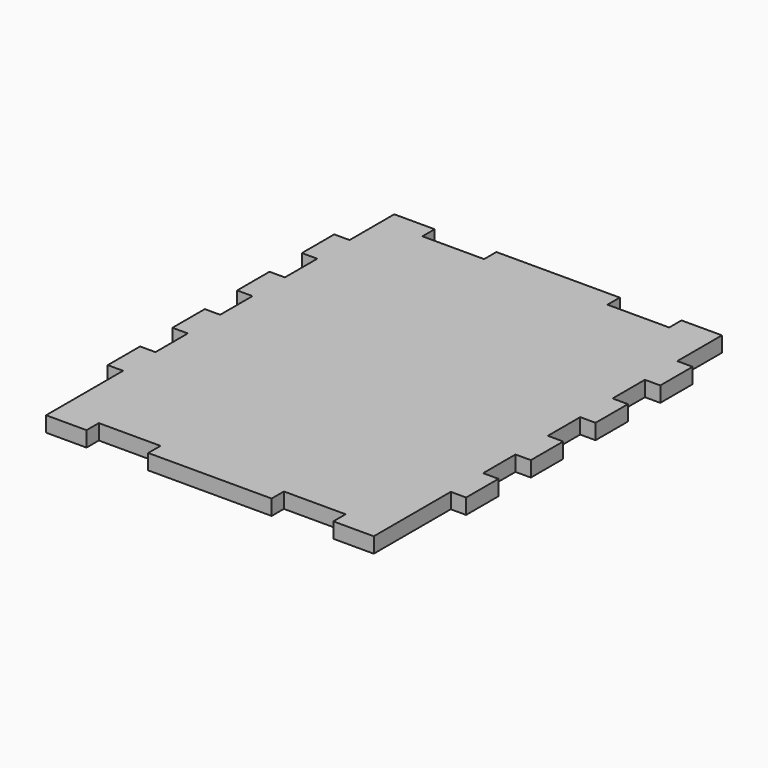
from build123d import *

# Parameters (mm, degrees)
F1_DEPTH = 3


with BuildPart() as f1:
    # F0 (on Top) → F1 (new body)
    with BuildSketch(Plane.XY):
        Polygon((-32, -39.5), (-32, -42.5), (-24.1, -42.5), (-24.1, -39.5), (-12.05, -39.5), (-12.05, -42.5), (12.05, -42.5), (12.05, -39.5), (24.1, -39.5), (24.1, -42.5), (32, -42.5), (32, -39.5), (32, -23.7), (35, -23.7), (35, -15.8), (32, -15.8), (32, -7.9), (35, -7.9), (35, 0), (32, 0), (32, 7.9), (35, 7.9), (35, 15.8), (32, 15.8), (32, 23.7), (35, 23.7), (35, 31.6), (32, 31.6), (32, 39.5), (32, 42.5), (24.1, 42.5), (24.1, 39.5), (12.05, 39.5), (12.05, 42.5), (-12.05, 42.5), (-12.05, 39.5), (-24.1, 39.5), (-24.1, 42.5), (-32, 42.5), (-32, 39.5), (-32, 31.6), (-35, 31.6), (-35, 23.7), (-32, 23.7), (-32, 15.8), (-35, 15.8), (-35, 7.9), (-32, 7.9), (-32, 0), (-35, 0), (-35, -7.9), (-32, -7.9), (-32, -15.8), (-35, -15.8), (-35, -23.7), (-32, -23.7), align=None)
    extrude(amount=F1_DEPTH)


solid = f1.part
